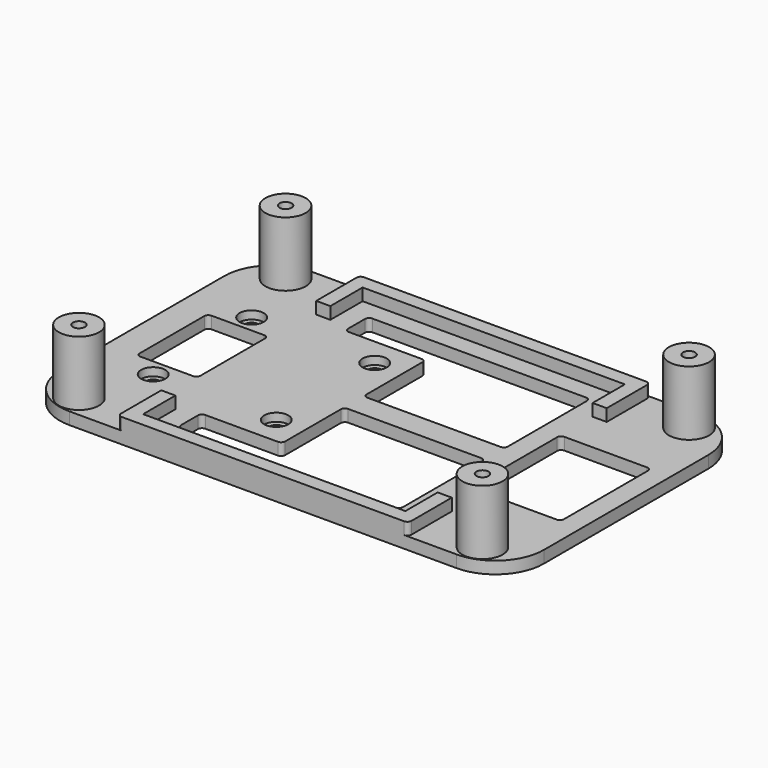
from build123d import *

# Parameters (mm, degrees)
SKETCH_W        = 120
SKETCH_H        = 75
PAD_DEPTH       = 3
PAD001_DEPTH    = 3
SKETCH002_R     = 5
SKETCH002_R_2   = 1.5
PAD002_DEPTH    = 16
SKETCH003_R     = 1.7
SKETCH003_W     = 15.04
SKETCH003_H     = 22
SKETCH003_W_2   = 22.5
SKETCH003_H_2   = 28
POCKET_DEPTH    = 3.001
SKETCH004_R     = 3
POCKET001_DEPTH = 2
FILLET_R        = 12
FILLET001_R     = 1
FILLET002_R     = 1
FILLET003_R     = 1
FILLET004_R     = 1
FILLET005_R     = 1
FILLET006_R     = 1


with BuildPart() as part:
    # Sketch → Pad (new body)
    with BuildSketch(Plane.XY):
        with Locations((60, -37.5)):
            Rectangle(SKETCH_W, SKETCH_H)
    extrude(amount=PAD_DEPTH)

    # Sketch001 → Pad001 (new body)
    with BuildSketch(Plane.XY.offset(3)):
        Polygon((27.5, -3.5), (92.5, -3.5), (92.5, -13.5), (96, -13.5), (96, 0), (24, 0), (24, -13.5), (27.5, -13.5), align=None)
        Polygon((92.5, -71.5), (27.5, -71.5), (27.5, -61.5), (24, -61.5), (24, -75), (96, -75), (96, -61.5), (92.5, -61.5), align=None)
    extrude(amount=PAD001_DEPTH)

    # Sketch002 → Pad002 (new body)
    with BuildSketch(Plane.XY.offset(3)):
        with Locations((10, -5.5)):
            Circle(SKETCH002_R)
        with Locations((10, -5.5)):
            Circle(SKETCH002_R_2, mode=Mode.SUBTRACT)
        with Locations((110, -5.5)):
            Circle(SKETCH002_R)
        with Locations((110, -5.5)):
            Circle(SKETCH002_R_2, mode=Mode.SUBTRACT)
        with Locations((110, -69.5)):
            Circle(SKETCH002_R)
        with Locations((110, -69.5)):
            Circle(SKETCH002_R_2, mode=Mode.SUBTRACT)
        with Locations((10, -69.5)):
            Circle(SKETCH002_R)
        with Locations((10, -69.5)):
            Circle(SKETCH002_R_2, mode=Mode.SUBTRACT)
    extrude(amount=PAD002_DEPTH)

    # Sketch003 → Pocket (cut, through all)
    with BuildSketch(Plane.XY.offset(3)):
        with Locations((15, -22.25)):
            Circle(SKETCH003_R)
        with Locations((45.5, -22.25)):
            Circle(SKETCH003_R)
        with Locations((15, -52.75)):
            Circle(SKETCH003_R)
        with Locations((45.5, -52.75)):
            Circle(SKETCH003_R)
        with Locations((14.98, -37.5)):
            Rectangle(SKETCH003_W, SKETCH003_H)
        Polygon((32.5, -8), (87.5, -8), (87.5, -34.5), (52.5, -34.5), (52.5, -15.25), (32.5, -15.25), align=None)
        Polygon((32.5, -59.75), (32.5, -67), (87.5, -67), (87.5, -40.5), (52.5, -40.5), (52.5, -59.75), align=None)
        with Locations((103.75, -37.5)):
            Rectangle(SKETCH003_W_2, SKETCH003_H_2)
    extrude(amount=-POCKET_DEPTH, mode=Mode.SUBTRACT)

    # Sketch004 → Pocket001 (cut)
    with BuildSketch(Plane.XY.offset(3)):
        with Locations((45.5, -22.25)):
            Circle(SKETCH004_R)
        with Locations((15, -22.25)):
            Circle(SKETCH004_R)
        with Locations((15, -52.75)):
            Circle(SKETCH004_R)
        with Locations((45.5, -52.75)):
            Circle(SKETCH004_R)
    extrude(amount=-POCKET001_DEPTH, mode=Mode.SUBTRACT)

    # Fillet
    fillet_edges = [part.edges().sort_by_distance(p)[0] for p in [
        (0, -75, 1.5),
        (0, 0, 1.5),
        (120, 0, 1.5),
        (120, -75, 1.5),
    ]]
    fillet(fillet_edges, radius=FILLET_R)

    # Fillet001
    fillet001_edges = [part.edges().sort_by_distance(p)[0] for p in [
        (52.5, -15.25, 1.5),
        (52.5, -34.5, 1.5),
        (52.5, -59.75, 1.5),
        (32.5, -67, 1.5),
        (92.5, -51.5, 1.5),
        (32.5, -15.25, 1.5),
        (7.46, -48.5, 1.5),
    ]]
    fillet(fillet001_edges, radius=FILLET001_R)

    # Fillet002
    fillet002_edges = [part.edges().sort_by_distance(p)[0] for p in [
        (115, -23.5, 1.5),
        (87.5, -40.5, 1.5),
        (87.5, -8, 1.5),
        (22.5, -26.5, 1.5),
    ]]
    fillet(fillet002_edges, radius=FILLET002_R)

    # Fillet003
    fillet003_edges = [part.edges().sort_by_distance(p)[0] for p in [
        (52.5, -40.5, 1.5),
        (32.5, -8, 1.5),
        (92.5, -23.5, 1.5),
        (7.46, -26.5, 1.5),
    ]]
    fillet(fillet003_edges, radius=FILLET003_R)

    # Fillet004
    fillet004_edges = [part.edges().sort_by_distance(p)[0] for p in [
        (22.5, -48.5, 1.5),
        (87.5, -34.5, 1.5),
        (87.5, -67, 1.5),
        (115, -51.5, 1.5),
    ]]
    fillet(fillet004_edges, radius=FILLET004_R)

    # Fillet005
    fillet005_edges = [part.edges().sort_by_distance(p)[0] for p in [
        (32.5, -59.75, 1.5),
    ]]
    fillet(fillet005_edges, radius=FILLET005_R)

    # Fillet006
    fillet006_edges = [part.edges().sort_by_distance(p)[0] for p in [
        (24, 0, 4.5),
        (96, 0, 4.5),
        (24, -75, 4.5),
        (96, -75, 4.5),
    ]]
    fillet(fillet006_edges, radius=FILLET006_R)


solid = part.part
